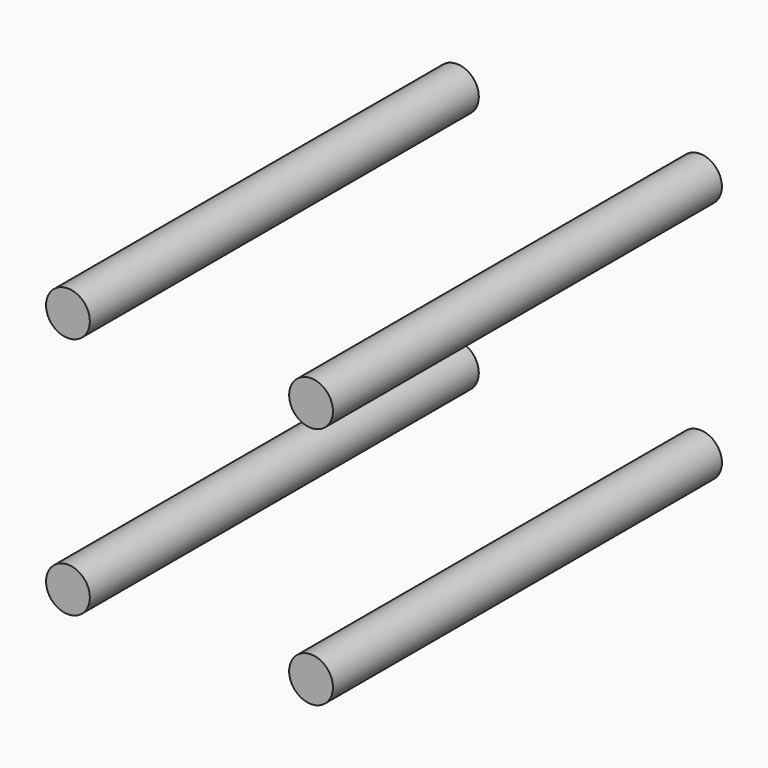
from build123d import *

# Parameters (mm, degrees)
F0_R     = 2.287831
F1_DEPTH = 50.8


with BuildPart() as f1:
    # F0 (on Front) → F1 (new body)
    with BuildSketch(Plane.XZ):
        with Locations((-34.94592, 45.891403)):
            Circle(F0_R)
        with Locations((-9.54592, 45.891403)):
            Circle(F0_R)
        with Locations((-9.54592, 20.491403)):
            Circle(F0_R)
        with Locations((-34.94592, 20.491403)):
            Circle(F0_R)
    extrude(amount=F1_DEPTH)


solid = f1.part
